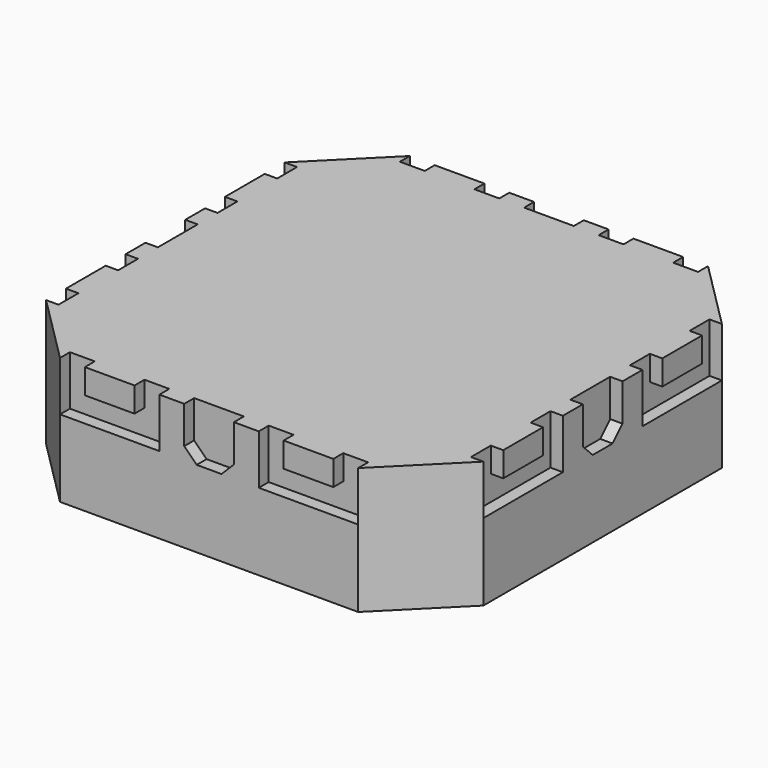
from build123d import *

# Parameters (mm, degrees)
PAD_DEPTH          = 5.1
POCKET_DEPTH       = 0.5
POLARPATTERN_COUNT = 4


with BuildPart() as part:
    # Sketch → Pad (new body)
    with BuildSketch(Plane.XY):
        Polygon((8.8, -6), (8.8, 6), (6, 8.8), (-6, 8.8), (-8.8, 6), (-8.8, -6), (-6, -8.8), (6, -8.8), align=None)
    extrude(amount=PAD_DEPTH)

    # Sketch002 (on Face7 of Pad) → Pocket (cut)
    with BuildSketch(Plane.XZ.offset(8.8)):
        Polygon((-3, 5.1), (-3, 4.1), (-5, 4.1), (-5, 5.1), (-6, 5.1), (-6, 3.1), (-2, 3.1), (-2, 5.1), align=None)
        Polygon((-1, 5.1), (-1, 3.6), (-0.5, 3.1), (0.5, 3.1), (1, 3.6), (1, 5.1), align=None)
        Polygon((2, 5.1), (2, 3.1), (6, 3.1), (6, 5.1), (5, 5.1), (5, 4.1), (3, 4.1), (3, 5.1), align=None)
    pocket = extrude(amount=-POCKET_DEPTH, mode=Mode.SUBTRACT)

    # PolarPattern: Pocket ×4 about axis
    polarpattern_axis = Axis((0, 0, 0), (0, 0, 1))
    for i in range(1, POLARPATTERN_COUNT):
        add(pocket.rotate(polarpattern_axis, i * 360 / POLARPATTERN_COUNT), mode=Mode.SUBTRACT)


solid = part.part
